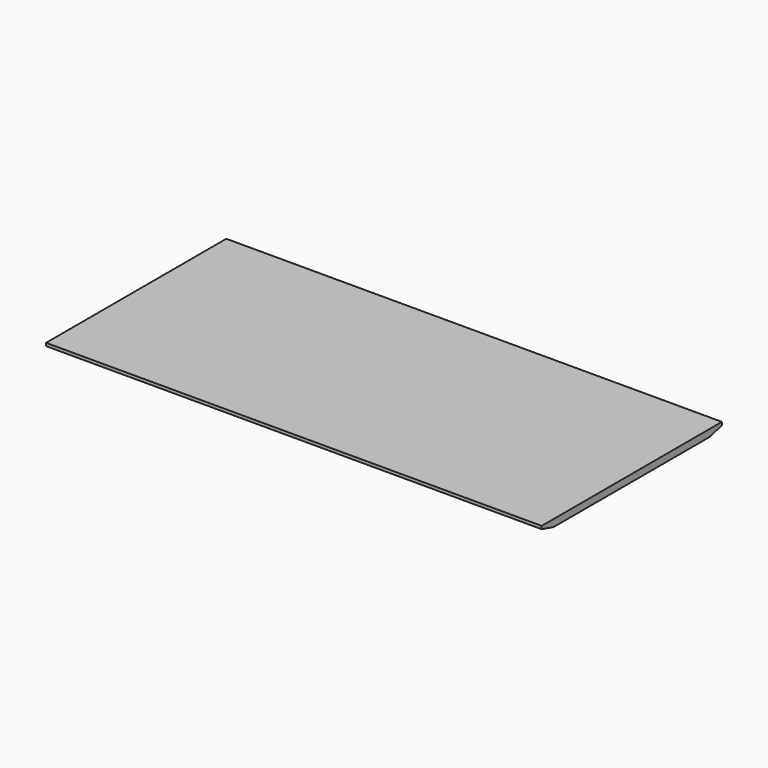
from build123d import *

# Parameters (mm, degrees)
F0_W     = 1676.4
F0_H     = 762
F1_DEPTH = 24


with BuildPart() as f1:
    # F0 (on Top) → F1 (new body)
    with BuildSketch(Plane.XY):
        Rectangle(F0_W, F0_H)
    extrude(amount=F1_DEPTH)

    # F4: sweep along a path in F3
    with BuildLine(Plane(origin=(0, 0, 0), x_dir=(1, 0, 0), z_dir=(0, 0, -1))) as f4_path:
        Line((-838.2, 381), (838.2, 381))
    # F2 (on face) → F4 (sweep, cut)
    with BuildSketch(Plane.YZ.offset(838.2)):
        Polygon((381, 14), (331, 0), (381, 0), align=None)
        Polygon((-381, 0), (-331, 0), (-381, 14), align=None)
    sweep(path=f4_path.line, mode=Mode.SUBTRACT)


solid = f1.part
